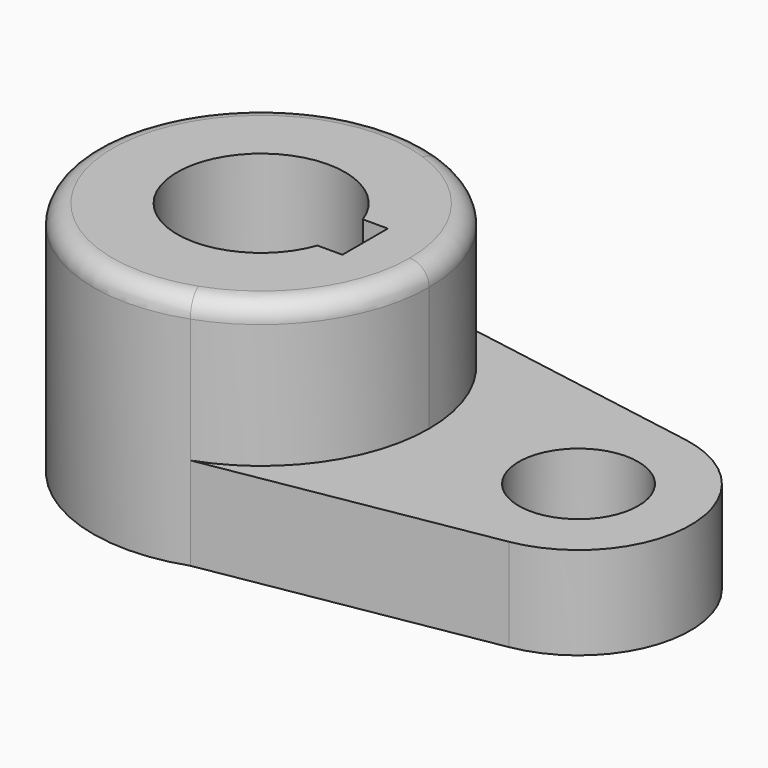
from build123d import *

# Parameters (mm, degrees)
F0_R     = 26.8981643916
F1_DEPTH = 40.2336
F0_R_2   = 10.16
F2_DEPTH = 15.7734
F3_R     = 3.302


with BuildPart() as f1:
    # F0 (on Top) → F1 (new body)
    with BuildSketch(Plane.XY):
        with BuildLine():
            ThreePointArc((9.5121844836, -26.9452959039), (23.3274655355, -16.5033322905), (28.575, 0))
            ThreePointArc((28.575, 0), (23.3274655355, 16.5033322905), (9.5121844836, 26.9452959039))
            ThreePointArc((9.5121844836, 26.9452959039), (-28.575, 0), (9.5121844836, -26.9452959039))
        make_face()
        Circle(F0_R, mode=Mode.SUBTRACT)
        Circle(F0_R)
        with BuildLine():
            ThreePointArc((13.4477648793, -4.826), (-14.2875, 0), (13.4477648793, 4.826))
            Line((13.4477648793, 4.826), (17.6895648793, 4.826))
            Line((17.6895648793, 4.826), (17.6895648793, -4.826))
            Line((17.6895648793, -4.826), (13.4477648793, -4.826))
        make_face(mode=Mode.SUBTRACT)
    extrude(amount=F1_DEPTH)

    # F0 (on Top) → F2 (join)
    with BuildSketch(Plane.XY):
        with BuildLine():
            ThreePointArc((9.5121844836, 26.9452959039), (23.3274655355, 16.5033322905), (28.575, 0))
            ThreePointArc((28.575, 0), (23.3274655355, -16.5033322905), (9.5121844836, -26.9452959039))
            Line((9.5121844836, -26.9452959039), (57.1919272622, -18.7764181619))
            ThreePointArc((57.1919272622, -18.7764181619), (73.025, 0), (57.1919272622, 18.7764181619))
            Line((57.1919272622, 18.7764181619), (9.5121844836, 26.9452959039))
        make_face()
        with Locations((53.975, 0)):
            Circle(F0_R_2, mode=Mode.SUBTRACT)
    extrude(amount=F2_DEPTH)

    # F3
    f3_edges = [f1.edges().sort_by_distance(p)[0] for p in [
        (-9.512184, 26.945296, 40.2336),
    ]]
    fillet(f3_edges, radius=F3_R)


solid = f1.part
